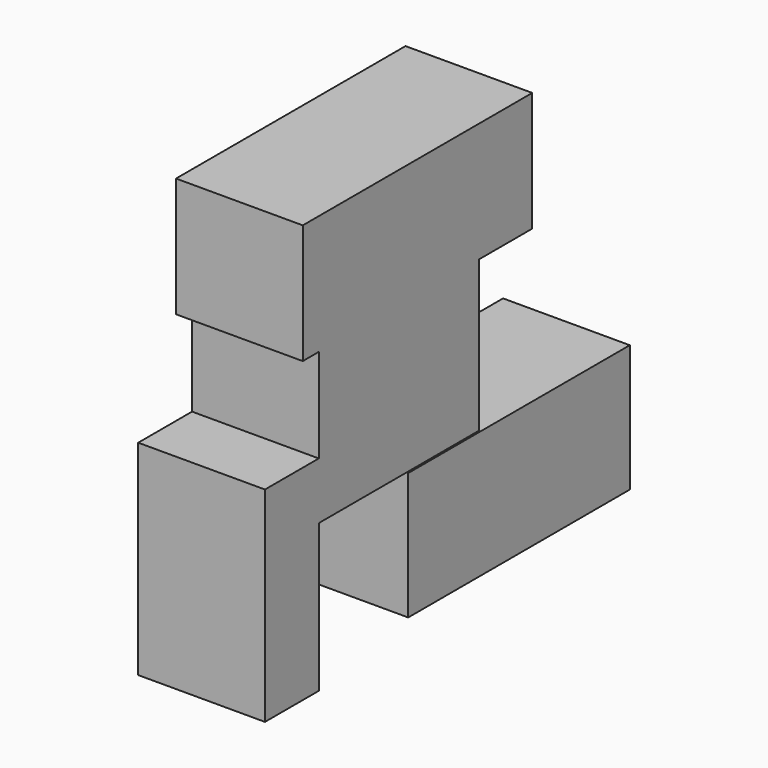
from build123d import *

# Parameters (mm, degrees)
F0_W     = 142.030299
F0_H     = 65.193496
F1_DEPTH = 32.5


with BuildPart() as f1:
    # F0 (on Right) → F1 (new body, symmetric)
    with BuildSketch(Plane.YZ):
        Polygon((-57.334688, 48.116557), (45.461196, 48.116557), (79.503715, 48.116557), (79.503715, 109.404765), (-67.604929, 109.404765), (-67.604929, 48.116557), align=None)
        with Locations((71.015149, -62.514756)):
            Rectangle(F0_W, F0_H)
        Polygon((-57.334688, -29.194675), (45.461196, -29.194675), (45.461196, 48.116557), (-57.334688, 48.116557), (-57.334688, 0), align=None)
        Polygon((-57.334688, -104.927428), (-57.334688, -29.194675), (-57.334688, 0), (-91.841102, 0), (-91.841102, -104.927428), align=None)
    extrude(amount=F1_DEPTH, both=True)


solid = f1.part
